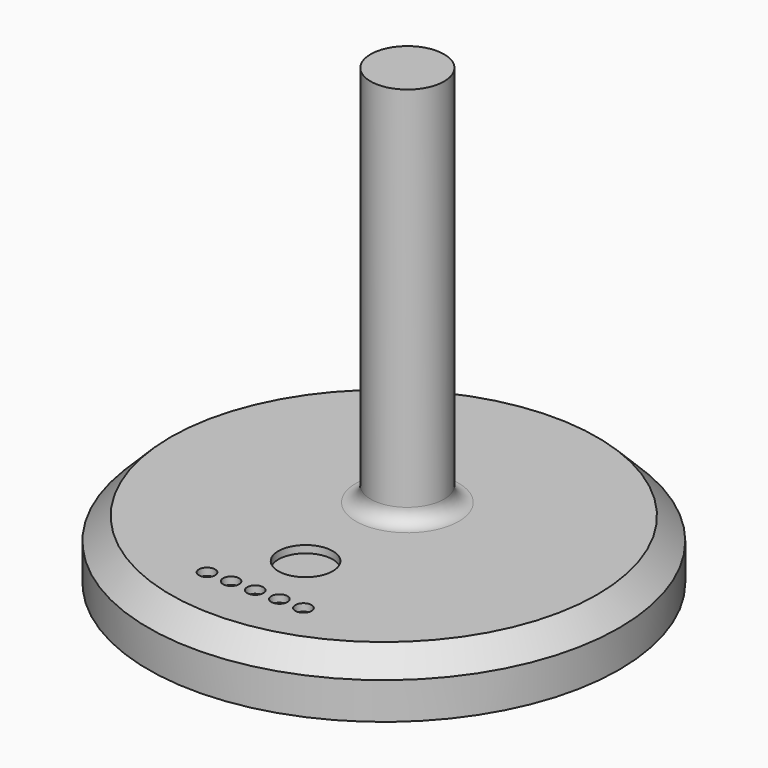
from build123d import *

# Parameters (mm, degrees)
SKETCH034_R     = 160
PAD021_DEPTH    = 40
SKETCH035_R     = 25
PAD022_DEPTH    = 260
FILLET004_R     = 10
SKETCH036_R     = 18.5
SKETCH036_R_2   = 5.5
POCKET004_DEPTH = 5
SKETCH037_R     = 17.5
SKETCH037_R_2   = 5
PAD023_DEPTH    = 10
FILLET005_R     = 1
PAD024_DEPTH    = 5
FILLET006_R     = 0.5
FILLET007_R     = 1.5
FILLET008_R     = 0.5
CHAMFER001_SIZE = 15
SKETCH055_R     = 5
POCKET007_DEPTH = 10
SKETCH056_R     = 17.5
POCKET008_DEPTH = 15


with BuildPart() as part:
    # Sketch034 (on Face1 of CopyPad021) → Pad021 (new body)
    with BuildSketch(Plane(origin=(0, 0, -559.544271), x_dir=(1, 0, 0), z_dir=(0, 0, -1))):
        with Locations((0, -82.297836)):
            Circle(SKETCH034_R)
    extrude(amount=PAD021_DEPTH)

    # Sketch035 (on Face2 of Pad021) → Pad022 (join)
    with BuildSketch(Plane.XY.offset(-559.544271)):
        with Locations((0, 102.297836)):
            Circle(SKETCH035_R)
    extrude(amount=PAD022_DEPTH)

    # Fillet004
    fillet004_edges = [part.edges().sort_by_distance(p)[0] for p in [
        (-25, 102.297836, -559.544271),
    ]]
    fillet(fillet004_edges, radius=FILLET004_R)

    # Sketch036 (on Face1 of Fillet004) → Pocket004 (cut)
    with BuildSketch(Plane.XY.offset(-559.544271)):
        with Locations((0, 15.789559)):
            Circle(SKETCH036_R)
        with Locations((-32.775259, -26.969265)):
            Circle(SKETCH036_R_2)
        with Locations((-16.38763, -26.969265)):
            Circle(SKETCH036_R_2)
        with Locations((0, -26.969265)):
            Circle(SKETCH036_R_2)
        with Locations((16.38763, -26.969265)):
            Circle(SKETCH036_R_2)
        with Locations((32.775259, -26.969265)):
            Circle(SKETCH036_R_2)
    extrude(amount=-POCKET004_DEPTH, mode=Mode.SUBTRACT)

    # Sketch037 (on Face14 of Pocket004) → Pad023 (join)
    with BuildSketch(Plane.XY.offset(-564.544271)):
        with Locations((0, 15.789559)):
            Circle(SKETCH037_R)
        with Locations((-32.775259, -26.969265)):
            Circle(SKETCH037_R_2)
        with Locations((-16.38763, -26.969265)):
            Circle(SKETCH037_R_2)
        with Locations((0, -26.969265)):
            Circle(SKETCH037_R_2)
        with Locations((16.38763, -26.969265)):
            Circle(SKETCH037_R_2)
        with Locations((32.775259, -26.969265)):
            Circle(SKETCH037_R_2)
    extrude(amount=PAD023_DEPTH)

    # Fillet005
    fillet005_edges = [part.edges().sort_by_distance(p)[0] for p in [
        (-5, -26.969265, -554.544271),
        (11.38763, -26.969265, -554.544271),
        (27.775259, -26.969265, -554.544271),
        (-21.38763, -26.969265, -554.544271),
        (-37.775259, -26.969265, -554.544271),
    ]]
    fillet(fillet005_edges, radius=FILLET005_R)

    # Sketch038 (on Face29 of Fillet005) → Pad024 (join)
    with BuildSketch(Plane.XY.offset(-554.544271)):
        with BuildLine():
            ThreePointArc((3.946719, 28.587051), (0, 32.53377), (-3.946719, 28.587051))
            Line((-3.946719, 28.587051), (-3.946719, 2.992067))
            ThreePointArc((-3.946719, 2.992067), (0, -0.954652), (3.946719, 2.992067))
            Line((3.946719, 28.587051), (3.946719, 2.992067))
        make_face()
    extrude(amount=PAD024_DEPTH)

    # Fillet006
    fillet006_edges = [part.edges().sort_by_distance(p)[0] for p in [
        (-3.946719, 15.789559, -554.544271),
    ]]
    fillet(fillet006_edges, radius=FILLET006_R)

    # Fillet007
    fillet007_edges = [part.edges().sort_by_distance(p)[0] for p in [
        (-3.946719, 15.789559, -549.544271),
    ]]
    fillet(fillet007_edges, radius=FILLET007_R)

    # Fillet008
    fillet008_edges = [part.edges().sort_by_distance(p)[0] for p in [
        (-17.5, 15.789559, -554.544271),
    ]]
    fillet(fillet008_edges, radius=FILLET008_R)

    # Chamfer001
    chamfer001_edges = [part.edges().sort_by_distance(p)[0] for p in [
        (-160, 82.297836, -559.544271),
    ]]
    chamfer(chamfer001_edges, length=CHAMFER001_SIZE)

    # Sketch055 (on Face36 of Chamfer001) → Pocket007 (cut)
    with BuildSketch(Plane.XY.offset(-554.544271)):
        with Locations((-32.775259, -26.969265)):
            Circle(SKETCH055_R)
        with Locations((-16.38763, -26.969265)):
            Circle(SKETCH055_R)
        with Locations((0, -26.969265)):
            Circle(SKETCH055_R)
        with Locations((16.38763, -26.969265)):
            Circle(SKETCH055_R)
        with Locations((32.775259, -26.969265)):
            Circle(SKETCH055_R)
    extrude(amount=-POCKET007_DEPTH, mode=Mode.SUBTRACT)

    # Sketch056 (on Face30 of Pocket007) → Pocket008 (cut)
    with BuildSketch(Plane.XY.offset(-549.544271)):
        with Locations((0, 15.789559)):
            Circle(SKETCH056_R)
    extrude(amount=-POCKET008_DEPTH, mode=Mode.SUBTRACT)


with BuildPart() as part_1:
    # Clone002 placement: moved
    add(part.part.moved(Location((0, 0, 599.54))))


solid = part_1.part
